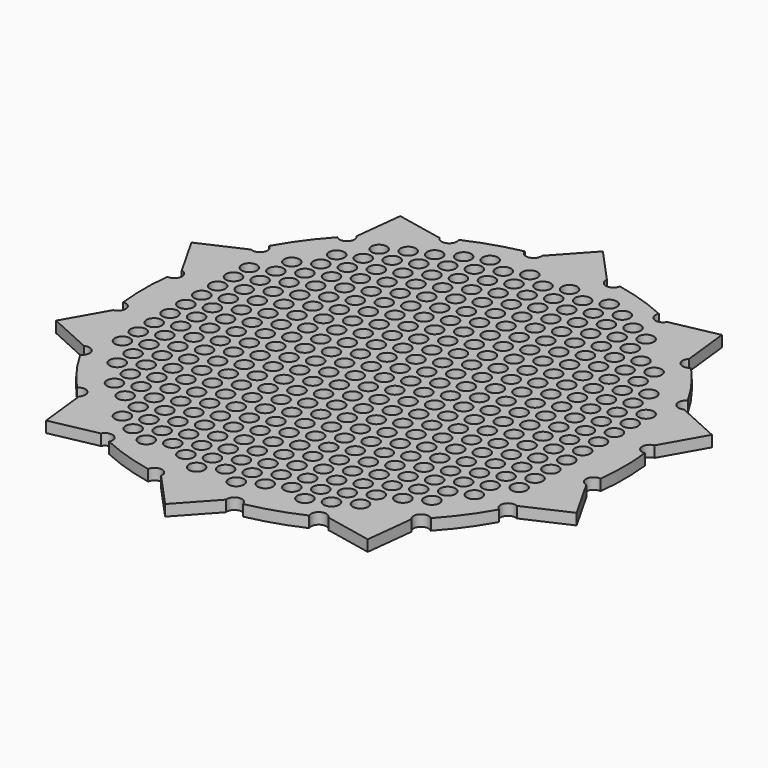
from build123d import *

# Parameters (mm, degrees)
F0_R     = 2.623
F0_R_2   = 2.5
F1_DEPTH = 0.127
F3_R     = 0.0875
F4_DEPTH = 0.128


with BuildPart() as f1:
    # F0 (on Top) → F1 (new body)
    with BuildSketch(Plane.XY):
        with BuildLine():
            ThreePointArc((0.5434336474, 2.6957707378), (0.4428414203, 2.62541382), (0.3708930758, 2.7248740019))
            ThreePointArc((0.3708930758, 2.7248740019), (0, 2.75), (-0.3708930758, 2.7248740019))
            ThreePointArc((-0.3708930758, 2.7248740019), (-0.4428414203, 2.62541382), (-0.5434336474, 2.6957707378))
            ThreePointArc((-0.5434336474, 2.6957707378), (-0.8497967345, 2.6154054198), (-1.1448872272, 2.5003466234))
            ThreePointArc((-1.1448872272, 2.5003466234), (-1.1849132898, 2.3843000536), (-1.3015819513, 2.4224748552))
            ThreePointArc((-1.3015819513, 2.4224748552), (-1.6164094438, 2.2247967345), (-1.9016995541, 1.9864638949))
            ThreePointArc((-1.9016995541, 1.9864638949), (-1.9014457594, 1.8637087418), (-2.0241813393, 1.8615020563))
            ThreePointArc((-2.0241813393, 1.8615020563), (-2.2247967345, 1.6164094438), (-2.3959000943, 1.3498750825))
            ThreePointArc((-2.3959000943, 1.3498750825), (-2.3600713969, 1.2324647061), (-2.4768969121, 1.1947726507))
            ThreePointArc((-2.4768969121, 1.1947726507), (-2.6154054198, 0.8497967345), (-2.7061214391, 0.4892920975))
            ThreePointArc((-2.7061214391, 0.4892920975), (-2.6337624462, 0.3901302692), (-2.731760559, 0.3162028594))
            ThreePointArc((-2.731760559, 0.3162028594), (-2.75, 0), (-2.731760559, -0.3162028594))
            ThreePointArc((-2.731760559, -0.3162028594), (-2.6337624462, -0.3901302692), (-2.7061214391, -0.4892920975))
            ThreePointArc((-2.7061214391, -0.4892920975), (-2.6154054198, -0.8497967345), (-2.4768969121, -1.1947726507))
            ThreePointArc((-2.4768969121, -1.1947726507), (-2.3600713969, -1.2324647061), (-2.3959000943, -1.3498750825))
            ThreePointArc((-2.3959000943, -1.3498750825), (-2.2247967345, -1.6164094438), (-2.0241813393, -1.8615020563))
            ThreePointArc((-2.0241813393, -1.8615020563), (-1.9014457594, -1.8637087418), (-1.9016995541, -1.9864638949))
            ThreePointArc((-1.9016995541, -1.9864638949), (-1.6164094438, -2.2247967345), (-1.3015819513, -2.4224748552))
            ThreePointArc((-1.3015819513, -2.4224748552), (-1.1849132898, -2.3843000536), (-1.1448872272, -2.5003466234))
            ThreePointArc((-1.1448872272, -2.5003466234), (-0.8497967345, -2.6154054198), (-0.5434336474, -2.6957707378))
            ThreePointArc((-0.5434336474, -2.6957707378), (-0.4428414203, -2.62541382), (-0.3708930758, -2.7248740019))
            ThreePointArc((-0.3708930758, -2.7248740019), (0, -2.75), (0.3708930758, -2.7248740019))
            ThreePointArc((0.3708930758, -2.7248740019), (0.4428414203, -2.62541382), (0.5434336474, -2.6957707378))
            ThreePointArc((0.5434336474, -2.6957707378), (0.8497967345, -2.6154054198), (1.1448872272, -2.5003466234))
            ThreePointArc((1.1448872272, -2.5003466234), (1.1849132898, -2.3843000536), (1.3015819513, -2.4224748552))
            ThreePointArc((1.3015819513, -2.4224748552), (1.6164094438, -2.2247967345), (1.9016995541, -1.9864638949))
            ThreePointArc((1.9016995541, -1.9864638949), (1.9014457594, -1.8637087418), (2.0241813393, -1.8615020563))
            ThreePointArc((2.0241813393, -1.8615020563), (2.2247967345, -1.6164094438), (2.3959000943, -1.3498750825))
            ThreePointArc((2.3959000943, -1.3498750825), (2.3600713969, -1.2324647061), (2.4768969121, -1.1947726507))
            ThreePointArc((2.4768969121, -1.1947726507), (2.6154054198, -0.8497967345), (2.7061214391, -0.4892920975))
            ThreePointArc((2.7061214391, -0.4892920975), (2.6337624462, -0.3901302692), (2.731760559, -0.3162028594))
            ThreePointArc((2.731760559, -0.3162028594), (2.75, 0), (2.731760559, 0.3162028594))
            ThreePointArc((2.731760559, 0.3162028594), (2.6337624462, 0.3901302692), (2.7061214391, 0.4892920975))
            ThreePointArc((2.7061214391, 0.4892920975), (2.6154054198, 0.8497967345), (2.4768969121, 1.1947726507))
            ThreePointArc((2.4768969121, 1.1947726507), (2.3600713969, 1.2324647061), (2.3959000943, 1.3498750825))
            ThreePointArc((2.3959000943, 1.3498750825), (2.2247967345, 1.6164094438), (2.0241813393, 1.8615020563))
            ThreePointArc((2.0241813393, 1.8615020563), (1.9014457594, 1.8637087418), (1.9016995541, 1.9864638949))
            ThreePointArc((1.9016995541, 1.9864638949), (1.6164094438, 2.2247967345), (1.3015819513, 2.4224748552))
            ThreePointArc((1.3015819513, 2.4224748552), (1.1849132898, 2.3843000536), (1.1448872272, 2.5003466234))
            ThreePointArc((1.1448872272, 2.5003466234), (0.8497967345, 2.6154054198), (0.5434336474, 2.6957707378))
        make_face()
        Circle(F0_R, mode=Mode.SUBTRACT)
        Circle(F0_R)
        Circle(F0_R_2, mode=Mode.SUBTRACT)
        Circle(F0_R_2)
        with BuildLine():
            ThreePointArc((-0.3708930758, 2.7248740019), (0, 2.75), (0.3708930758, 2.7248740019))
            Line((0.3708930758, 2.7248740019), (0, 3.131))
            Line((0, 3.131), (-0.3708930758, 2.7248740019))
        make_face()
        with BuildLine():
            Line((1.8403556249, 2.5330322094), (1.3015819513, 2.4224748552))
            ThreePointArc((1.3015819513, 2.4224748552), (1.6164094438, 2.2247967345), (1.9016995541, 1.9864638949))
            Line((1.9016995541, 1.9864638949), (1.8403556249, 2.5330322094))
        make_face()
        with BuildLine():
            ThreePointArc((-1.9016995541, 1.9864638949), (-1.6164094438, 2.2247967345), (-1.3015819513, 2.4224748552))
            Line((-1.3015819513, 2.4224748552), (-1.8403556249, 2.5330322094))
            Line((-1.8403556249, 2.5330322094), (-1.9016995541, 1.9864638949))
        make_face()
        with BuildLine():
            Line((2.9777579525, 0.9675322094), (2.4768969121, 1.1947726507))
            ThreePointArc((2.4768969121, 1.1947726507), (2.6154054198, 0.8497967345), (2.7061214391, 0.4892920975))
            Line((2.7061214391, 0.4892920975), (2.9777579525, 0.9675322094))
        make_face()
        with BuildLine():
            ThreePointArc((-2.7061214391, 0.4892920975), (-2.6154054198, 0.8497967345), (-2.4768969121, 1.1947726507))
            Line((-2.4768969121, 1.1947726507), (-2.9777579525, 0.9675322094))
            Line((-2.9777579525, 0.9675322094), (-2.7061214391, 0.4892920975))
        make_face()
        with BuildLine():
            Line((2.9777579525, -0.9675322094), (2.7061214391, -0.4892920975))
            ThreePointArc((2.7061214391, -0.4892920975), (2.6154054198, -0.8497967345), (2.4768969121, -1.1947726507))
            Line((2.4768969121, -1.1947726507), (2.9777579525, -0.9675322094))
        make_face()
        with BuildLine():
            ThreePointArc((-2.4768969121, -1.1947726507), (-2.6154054198, -0.8497967345), (-2.7061214391, -0.4892920975))
            Line((-2.7061214391, -0.4892920975), (-2.9777579525, -0.9675322094))
            Line((-2.9777579525, -0.9675322094), (-2.4768969121, -1.1947726507))
        make_face()
        with BuildLine():
            Line((1.8403556249, -2.5330322094), (1.9016995541, -1.9864638949))
            ThreePointArc((1.9016995541, -1.9864638949), (1.6164094438, -2.2247967345), (1.3015819513, -2.4224748552))
            Line((1.3015819513, -2.4224748552), (1.8403556249, -2.5330322094))
        make_face()
        with BuildLine():
            ThreePointArc((-1.3015819513, -2.4224748552), (-1.6164094438, -2.2247967345), (-1.9016995541, -1.9864638949))
            Line((-1.9016995541, -1.9864638949), (-1.8403556249, -2.5330322094))
            Line((-1.8403556249, -2.5330322094), (-1.3015819513, -2.4224748552))
        make_face()
        with BuildLine():
            Line((0, -3.131), (0.3708930758, -2.7248740019))
            ThreePointArc((0.3708930758, -2.7248740019), (0, -2.75), (-0.3708930758, -2.7248740019))
            Line((-0.3708930758, -2.7248740019), (0, -3.131))
        make_face()
    extrude(amount=F1_DEPTH)

    # F3 (on offset) → F4 (cut, through all)
    with BuildSketch(Plane.XY.offset(0.127)):
        with Locations((-2.0417519944, 1.2336155081)):
            Circle(F3_R)
        with Locations((-2.0417519944, 1.0066155081)):
            Circle(F3_R)
        with Locations((-2.2690836629, 0.9108655081)):
            Circle(F3_R)
        with Locations((-2.0417519944, 0.7796155081)):
            Circle(F3_R)
        with Locations((-1.5877519944, 1.9146155081)):
            Circle(F3_R)
        with Locations((-1.5877519944, 1.6876155081)):
            Circle(F3_R)
        with Locations((-1.8150836629, 1.5918655081)):
            Circle(F3_R)
        with Locations((-1.5877519944, 1.4606155081)):
            Circle(F3_R)
        with Locations((-1.8150836629, 1.3648655081)):
            Circle(F3_R)
        with Locations((-1.5877519944, 1.2336155081)):
            Circle(F3_R)
        with Locations((-1.8150836629, 1.1378655081)):
            Circle(F3_R)
        with Locations((-1.5877519944, 1.0066155081)):
            Circle(F3_R)
        with Locations((-1.8150836629, 0.9108655081)):
            Circle(F3_R)
        with Locations((-1.5877519944, 0.7796155081)):
            Circle(F3_R)
        with Locations((-1.1337519944, 2.1416155081)):
            Circle(F3_R)
        with Locations((-1.3610836629, 2.0458655081)):
            Circle(F3_R)
        with Locations((-1.1337519944, 1.9146155081)):
            Circle(F3_R)
        with Locations((-1.3610836629, 1.8188655081)):
            Circle(F3_R)
        with Locations((-1.1337519944, 1.6876155081)):
            Circle(F3_R)
        with Locations((-1.3610836629, 1.5918655081)):
            Circle(F3_R)
        with Locations((-1.1337519944, 1.4606155081)):
            Circle(F3_R)
        with Locations((-1.3610836629, 1.3648655081)):
            Circle(F3_R)
        with Locations((-1.1337519944, 1.2336155081)):
            Circle(F3_R)
        with Locations((-1.3610836629, 1.1378655081)):
            Circle(F3_R)
        with Locations((-1.1337519944, 1.0066155081)):
            Circle(F3_R)
        with Locations((-1.3610836629, 0.9108655081)):
            Circle(F3_R)
        with Locations((-1.1337519944, 0.7796155081)):
            Circle(F3_R)
        with Locations((-0.6797519944, 2.3686155081)):
            Circle(F3_R)
        with Locations((-0.9070836629, 2.2728655081)):
            Circle(F3_R)
        with Locations((-0.6797519944, 2.1416155081)):
            Circle(F3_R)
        with Locations((-0.9070836629, 2.0458655081)):
            Circle(F3_R)
        with Locations((-0.6797519944, 1.9146155081)):
            Circle(F3_R)
        with Locations((-0.9070836629, 1.8188655081)):
            Circle(F3_R)
        with Locations((-0.6797519944, 1.6876155081)):
            Circle(F3_R)
        with Locations((-0.9070836629, 1.5918655081)):
            Circle(F3_R)
        with Locations((-0.6797519944, 1.4606155081)):
            Circle(F3_R)
        with Locations((-0.9070836629, 1.3648655081)):
            Circle(F3_R)
        with Locations((-0.6797519944, 1.2336155081)):
            Circle(F3_R)
        with Locations((-0.9070836629, 1.1378655081)):
            Circle(F3_R)
        with Locations((-0.6797519944, 1.0066155081)):
            Circle(F3_R)
        with Locations((-0.9070836629, 0.9108655081)):
            Circle(F3_R)
        with Locations((-0.6797519944, 0.7796155081)):
            Circle(F3_R)
        with Locations((-0.2257519944, 2.3686155081)):
            Circle(F3_R)
        with Locations((-0.4530836629, 2.2728655081)):
            Circle(F3_R)
        with Locations((-0.2257519944, 2.1416155081)):
            Circle(F3_R)
        with Locations((-0.4530836629, 2.0458655081)):
            Circle(F3_R)
        with Locations((-0.2257519944, 1.9146155081)):
            Circle(F3_R)
        with Locations((-0.4530836629, 1.8188655081)):
            Circle(F3_R)
        with Locations((-0.2257519944, 1.6876155081)):
            Circle(F3_R)
        with Locations((-0.4530836629, 1.5918655081)):
            Circle(F3_R)
        with Locations((-0.2257519944, 1.4606155081)):
            Circle(F3_R)
        with Locations((-0.4530836629, 1.3648655081)):
            Circle(F3_R)
        with Locations((-0.2257519944, 1.2336155081)):
            Circle(F3_R)
        with Locations((-0.4530836629, 1.1378655081)):
            Circle(F3_R)
        with Locations((-0.2257519944, 1.0066155081)):
            Circle(F3_R)
        with Locations((-0.4530836629, 0.9108655081)):
            Circle(F3_R)
        with Locations((-0.2257519944, 0.7796155081)):
            Circle(F3_R)
        with Locations((0.2282480056, 2.3686155081)):
            Circle(F3_R)
        with Locations((0.0009163371, 2.2728655081)):
            Circle(F3_R)
        with Locations((0.2282480056, 2.1416155081)):
            Circle(F3_R)
        with Locations((0.0009163371, 2.0458655081)):
            Circle(F3_R)
        with Locations((0.2282480056, 1.9146155081)):
            Circle(F3_R)
        with Locations((0.0009163371, 1.8188655081)):
            Circle(F3_R)
        with Locations((0.2282480056, 1.6876155081)):
            Circle(F3_R)
        with Locations((0.0009163371, 1.5918655081)):
            Circle(F3_R)
        with Locations((0.2282480056, 1.4606155081)):
            Circle(F3_R)
        with Locations((0.0009163371, 1.3648655081)):
            Circle(F3_R)
        with Locations((0.2282480056, 1.2336155081)):
            Circle(F3_R)
        with Locations((0.0009163371, 1.1378655081)):
            Circle(F3_R)
        with Locations((0.2282480056, 1.0066155081)):
            Circle(F3_R)
        with Locations((0.0009163371, 0.9108655081)):
            Circle(F3_R)
        with Locations((0.2282480056, 0.7796155081)):
            Circle(F3_R)
        with Locations((0.6822480056, 2.3686155081)):
            Circle(F3_R)
        with Locations((0.4549163371, 2.2728655081)):
            Circle(F3_R)
        with Locations((0.6822480056, 2.1416155081)):
            Circle(F3_R)
        with Locations((0.4549163371, 2.0458655081)):
            Circle(F3_R)
        with Locations((0.6822480056, 1.9146155081)):
            Circle(F3_R)
        with Locations((0.4549163371, 1.8188655081)):
            Circle(F3_R)
        with Locations((0.6822480056, 1.6876155081)):
            Circle(F3_R)
        with Locations((0.4549163371, 1.5918655081)):
            Circle(F3_R)
        with Locations((0.6822480056, 1.4606155081)):
            Circle(F3_R)
        with Locations((0.4549163371, 1.3648655081)):
            Circle(F3_R)
        with Locations((0.6822480056, 1.2336155081)):
            Circle(F3_R)
        with Locations((0.4549163371, 1.1378655081)):
            Circle(F3_R)
        with Locations((0.6822480056, 1.0066155081)):
            Circle(F3_R)
        with Locations((0.4549163371, 0.9108655081)):
            Circle(F3_R)
        with Locations((0.6822480056, 0.7796155081)):
            Circle(F3_R)
        with Locations((0.9089163371, 2.2728655081)):
            Circle(F3_R)
        with Locations((1.1362480056, 2.1416155081)):
            Circle(F3_R)
        with Locations((0.9089163371, 2.0458655081)):
            Circle(F3_R)
        with Locations((1.1362480056, 1.9146155081)):
            Circle(F3_R)
        with Locations((0.9089163371, 1.8188655081)):
            Circle(F3_R)
        with Locations((1.1362480056, 1.6876155081)):
            Circle(F3_R)
        with Locations((0.9089163371, 1.5918655081)):
            Circle(F3_R)
        with Locations((1.1362480056, 1.4606155081)):
            Circle(F3_R)
        with Locations((0.9089163371, 1.3648655081)):
            Circle(F3_R)
        with Locations((1.1362480056, 1.2336155081)):
            Circle(F3_R)
        with Locations((0.9089163371, 1.1378655081)):
            Circle(F3_R)
        with Locations((1.1362480056, 1.0066155081)):
            Circle(F3_R)
        with Locations((0.9089163371, 0.9108655081)):
            Circle(F3_R)
        with Locations((1.1362480056, 0.7796155081)):
            Circle(F3_R)
        with Locations((1.3629163371, 2.0458655081)):
            Circle(F3_R)
        with Locations((1.3629163371, 1.8188655081)):
            Circle(F3_R)
        with Locations((1.5902480056, 1.6876155081)):
            Circle(F3_R)
        with Locations((1.3629163371, 1.5918655081)):
            Circle(F3_R)
        with Locations((1.5902480056, 1.4606155081)):
            Circle(F3_R)
        with Locations((1.3629163371, 1.3648655081)):
            Circle(F3_R)
        with Locations((1.5902480056, 1.2336155081)):
            Circle(F3_R)
        with Locations((1.3629163371, 1.1378655081)):
            Circle(F3_R)
        with Locations((1.5902480056, 1.0066155081)):
            Circle(F3_R)
        with Locations((1.3629163371, 0.9108655081)):
            Circle(F3_R)
        with Locations((1.5902480056, 0.7796155081)):
            Circle(F3_R)
        with Locations((1.8169163371, 1.5918655081)):
            Circle(F3_R)
        with Locations((1.8169163371, 1.3648655081)):
            Circle(F3_R)
        with Locations((2.0442480056, 1.2336155081)):
            Circle(F3_R)
        with Locations((1.8169163371, 1.1378655081)):
            Circle(F3_R)
        with Locations((2.0442480056, 1.0066155081)):
            Circle(F3_R)
        with Locations((1.8169163371, 0.9108655081)):
            Circle(F3_R)
        with Locations((2.0442480056, 0.7796155081)):
            Circle(F3_R)
        with Locations((-2.2690836629, 0.6838655081)):
            Circle(F3_R)
        with Locations((-2.0417519944, 0.5526155081)):
            Circle(F3_R)
        with Locations((-2.2690836629, 0.4568655081)):
            Circle(F3_R)
        with Locations((-2.0417519944, 0.3256155081)):
            Circle(F3_R)
        with Locations((-2.2690836629, 0.2298655081)):
            Circle(F3_R)
        with Locations((-2.0417519944, 0.0986155081)):
            Circle(F3_R)
        with Locations((-2.2690836629, 0.0028655081)):
            Circle(F3_R)
        with Locations((-2.0417519944, -0.1283844919)):
            Circle(F3_R)
        with Locations((-2.2690836629, -0.2241344919)):
            Circle(F3_R)
        with Locations((-2.0417519944, -0.3553844919)):
            Circle(F3_R)
        with Locations((-2.2690836629, -0.4511344919)):
            Circle(F3_R)
        with Locations((-2.0417519944, -0.5823844919)):
            Circle(F3_R)
        with Locations((-2.2690836629, -0.6781344919)):
            Circle(F3_R)
        with Locations((-2.0417519944, -0.8093844919)):
            Circle(F3_R)
        with Locations((-2.2690836629, -0.9051344919)):
            Circle(F3_R)
        with Locations((-2.0417519944, -1.0363844919)):
            Circle(F3_R)
        with Locations((-2.0417519944, -1.2633844919)):
            Circle(F3_R)
        with Locations((-1.8150836629, 0.6838655081)):
            Circle(F3_R)
        with Locations((-1.5877519944, 0.5526155081)):
            Circle(F3_R)
        with Locations((-1.8150836629, 0.4568655081)):
            Circle(F3_R)
        with Locations((-1.5877519944, 0.3256155081)):
            Circle(F3_R)
        with Locations((-1.8150836629, 0.2298655081)):
            Circle(F3_R)
        with Locations((-1.5877519944, 0.0986155081)):
            Circle(F3_R)
        with Locations((-1.8150836629, 0.0028655081)):
            Circle(F3_R)
        with Locations((-1.5877519944, -0.1283844919)):
            Circle(F3_R)
        with Locations((-1.8150836629, -0.2241344919)):
            Circle(F3_R)
        with Locations((-1.5877519944, -0.3553844919)):
            Circle(F3_R)
        with Locations((-1.8150836629, -0.4511344919)):
            Circle(F3_R)
        with Locations((-1.5877519944, -0.5823844919)):
            Circle(F3_R)
        with Locations((-1.8150836629, -0.6781344919)):
            Circle(F3_R)
        with Locations((-1.5877519944, -0.8093844919)):
            Circle(F3_R)
        with Locations((-1.8150836629, -0.9051344919)):
            Circle(F3_R)
        with Locations((-1.5877519944, -1.0363844919)):
            Circle(F3_R)
        with Locations((-1.8150836629, -1.1321344919)):
            Circle(F3_R)
        with Locations((-1.5877519944, -1.2633844919)):
            Circle(F3_R)
        with Locations((-1.8150836629, -1.3591344919)):
            Circle(F3_R)
        with Locations((-1.5877519944, -1.4903844919)):
            Circle(F3_R)
        with Locations((-1.8150836629, -1.5861344919)):
            Circle(F3_R)
        with Locations((-1.5877519944, -1.7173844919)):
            Circle(F3_R)
        with Locations((-1.3610836629, 0.6838655081)):
            Circle(F3_R)
        with Locations((-1.1337519944, 0.5526155081)):
            Circle(F3_R)
        with Locations((-1.3610836629, 0.4568655081)):
            Circle(F3_R)
        with Locations((-1.1337519944, 0.3256155081)):
            Circle(F3_R)
        with Locations((-1.3610836629, 0.2298655081)):
            Circle(F3_R)
        with Locations((-1.1337519944, 0.0986155081)):
            Circle(F3_R)
        with Locations((-1.3610836629, 0.0028655081)):
            Circle(F3_R)
        with Locations((-1.1337519944, -0.1283844919)):
            Circle(F3_R)
        with Locations((-1.3610836629, -0.2241344919)):
            Circle(F3_R)
        with Locations((-1.1337519944, -0.3553844919)):
            Circle(F3_R)
        with Locations((-1.3610836629, -0.4511344919)):
            Circle(F3_R)
        with Locations((-1.1337519944, -0.5823844919)):
            Circle(F3_R)
        with Locations((-1.3610836629, -0.6781344919)):
            Circle(F3_R)
        with Locations((-1.1337519944, -0.8093844919)):
            Circle(F3_R)
        with Locations((-1.3610836629, -0.9051344919)):
            Circle(F3_R)
        with Locations((-1.1337519944, -1.0363844919)):
            Circle(F3_R)
        with Locations((-1.3610836629, -1.1321344919)):
            Circle(F3_R)
        with Locations((-1.1337519944, -1.2633844919)):
            Circle(F3_R)
        with Locations((-1.3610836629, -1.3591344919)):
            Circle(F3_R)
        with Locations((-1.1337519944, -1.4903844919)):
            Circle(F3_R)
        with Locations((-1.3610836629, -1.5861344919)):
            Circle(F3_R)
        with Locations((-1.1337519944, -1.7173844919)):
            Circle(F3_R)
        with Locations((-0.9070836629, 0.6838655081)):
            Circle(F3_R)
        with Locations((-0.6797519944, 0.5526155081)):
            Circle(F3_R)
        with Locations((-0.9070836629, 0.4568655081)):
            Circle(F3_R)
        with Locations((-0.6797519944, 0.3256155081)):
            Circle(F3_R)
        with Locations((-0.9070836629, 0.2298655081)):
            Circle(F3_R)
        with Locations((-0.6797519944, 0.0986155081)):
            Circle(F3_R)
        with Locations((-0.9070836629, 0.0028655081)):
            Circle(F3_R)
        with Locations((-0.6797519944, -0.1283844919)):
            Circle(F3_R)
        with Locations((-0.9070836629, -0.2241344919)):
            Circle(F3_R)
        with Locations((-0.6797519944, -0.3553844919)):
            Circle(F3_R)
        with Locations((-0.9070836629, -0.4511344919)):
            Circle(F3_R)
        with Locations((-0.6797519944, -0.5823844919)):
            Circle(F3_R)
        with Locations((-0.9070836629, -0.6781344919)):
            Circle(F3_R)
        with Locations((-0.6797519944, -0.8093844919)):
            Circle(F3_R)
        with Locations((-0.9070836629, -0.9051344919)):
            Circle(F3_R)
        with Locations((-0.6797519944, -1.0363844919)):
            Circle(F3_R)
        with Locations((-0.9070836629, -1.1321344919)):
            Circle(F3_R)
        with Locations((-0.6797519944, -1.2633844919)):
            Circle(F3_R)
        with Locations((-0.9070836629, -1.3591344919)):
            Circle(F3_R)
        with Locations((-0.6797519944, -1.4903844919)):
            Circle(F3_R)
        with Locations((-0.9070836629, -1.5861344919)):
            Circle(F3_R)
        with Locations((-0.6797519944, -1.7173844919)):
            Circle(F3_R)
        with Locations((-0.4530836629, 0.6838655081)):
            Circle(F3_R)
        with Locations((-0.2257519944, 0.5526155081)):
            Circle(F3_R)
        with Locations((-0.4530836629, 0.4568655081)):
            Circle(F3_R)
        with Locations((-0.2257519944, 0.3256155081)):
            Circle(F3_R)
        with Locations((-0.4530836629, 0.2298655081)):
            Circle(F3_R)
        with Locations((-0.2257519944, 0.0986155081)):
            Circle(F3_R)
        with Locations((-0.4530836629, 0.0028655081)):
            Circle(F3_R)
        with Locations((-0.2257519944, -0.1283844919)):
            Circle(F3_R)
        with Locations((-0.4530836629, -0.2241344919)):
            Circle(F3_R)
        with Locations((-0.2257519944, -0.3553844919)):
            Circle(F3_R)
        with Locations((-0.4530836629, -0.4511344919)):
            Circle(F3_R)
        with Locations((-0.2257519944, -0.5823844919)):
            Circle(F3_R)
        with Locations((-0.4530836629, -0.6781344919)):
            Circle(F3_R)
        with Locations((-0.2257519944, -0.8093844919)):
            Circle(F3_R)
        with Locations((-0.4530836629, -0.9051344919)):
            Circle(F3_R)
        with Locations((-0.2257519944, -1.0363844919)):
            Circle(F3_R)
        with Locations((-0.4530836629, -1.1321344919)):
            Circle(F3_R)
        with Locations((-0.2257519944, -1.2633844919)):
            Circle(F3_R)
        with Locations((-0.4530836629, -1.3591344919)):
            Circle(F3_R)
        with Locations((-0.2257519944, -1.4903844919)):
            Circle(F3_R)
        with Locations((-0.4530836629, -1.5861344919)):
            Circle(F3_R)
        with Locations((-0.2257519944, -1.7173844919)):
            Circle(F3_R)
        with Locations((0.0009163371, 0.6838655081)):
            Circle(F3_R)
        with Locations((0.2282480056, 0.5526155081)):
            Circle(F3_R)
        with Locations((0.0009163371, 0.4568655081)):
            Circle(F3_R)
        with Locations((0.2282480056, 0.3256155081)):
            Circle(F3_R)
        with Locations((0.0009163371, 0.2298655081)):
            Circle(F3_R)
        with Locations((0.2282480056, 0.0986155081)):
            Circle(F3_R)
        with Locations((0.0009163371, 0.0028655081)):
            Circle(F3_R)
        with Locations((0.2282480056, -0.1283844919)):
            Circle(F3_R)
        with Locations((0.0009163371, -0.2241344919)):
            Circle(F3_R)
        with Locations((0.2282480056, -0.3553844919)):
            Circle(F3_R)
        with Locations((0.0009163371, -0.4511344919)):
            Circle(F3_R)
        with Locations((0.2282480056, -0.5823844919)):
            Circle(F3_R)
        with Locations((0.0009163371, -0.6781344919)):
            Circle(F3_R)
        with Locations((0.2282480056, -0.8093844919)):
            Circle(F3_R)
        with Locations((0.0009163371, -0.9051344919)):
            Circle(F3_R)
        with Locations((0.2282480056, -1.0363844919)):
            Circle(F3_R)
        with Locations((0.0009163371, -1.1321344919)):
            Circle(F3_R)
        with Locations((0.2282480056, -1.2633844919)):
            Circle(F3_R)
        with Locations((0.0009163371, -1.3591344919)):
            Circle(F3_R)
        with Locations((0.2282480056, -1.4903844919)):
            Circle(F3_R)
        with Locations((0.0009163371, -1.5861344919)):
            Circle(F3_R)
        with Locations((0.2282480056, -1.7173844919)):
            Circle(F3_R)
        with Locations((0.4549163371, 0.6838655081)):
            Circle(F3_R)
        with Locations((0.6822480056, 0.5526155081)):
            Circle(F3_R)
        with Locations((0.4549163371, 0.4568655081)):
            Circle(F3_R)
        with Locations((0.6822480056, 0.3256155081)):
            Circle(F3_R)
        with Locations((0.4549163371, 0.2298655081)):
            Circle(F3_R)
        with Locations((0.6822480056, 0.0986155081)):
            Circle(F3_R)
        with Locations((0.4549163371, 0.0028655081)):
            Circle(F3_R)
        with Locations((0.6822480056, -0.1283844919)):
            Circle(F3_R)
        with Locations((0.4549163371, -0.2241344919)):
            Circle(F3_R)
        with Locations((0.6822480056, -0.3553844919)):
            Circle(F3_R)
        with Locations((0.4549163371, -0.4511344919)):
            Circle(F3_R)
        with Locations((0.6822480056, -0.5823844919)):
            Circle(F3_R)
        with Locations((0.4549163371, -0.6781344919)):
            Circle(F3_R)
        with Locations((0.6822480056, -0.8093844919)):
            Circle(F3_R)
        with Locations((0.4549163371, -0.9051344919)):
            Circle(F3_R)
        with Locations((0.6822480056, -1.0363844919)):
            Circle(F3_R)
        with Locations((0.4549163371, -1.1321344919)):
            Circle(F3_R)
        with Locations((0.6822480056, -1.2633844919)):
            Circle(F3_R)
        with Locations((0.4549163371, -1.3591344919)):
            Circle(F3_R)
        with Locations((0.6822480056, -1.4903844919)):
            Circle(F3_R)
        with Locations((0.4549163371, -1.5861344919)):
            Circle(F3_R)
        with Locations((0.6822480056, -1.7173844919)):
            Circle(F3_R)
        with Locations((0.9089163371, 0.6838655081)):
            Circle(F3_R)
        with Locations((1.1362480056, 0.5526155081)):
            Circle(F3_R)
        with Locations((0.9089163371, 0.4568655081)):
            Circle(F3_R)
        with Locations((1.1362480056, 0.3256155081)):
            Circle(F3_R)
        with Locations((0.9089163371, 0.2298655081)):
            Circle(F3_R)
        with Locations((1.1362480056, 0.0986155081)):
            Circle(F3_R)
        with Locations((0.9089163371, 0.0028655081)):
            Circle(F3_R)
        with Locations((1.1362480056, -0.1283844919)):
            Circle(F3_R)
        with Locations((0.9089163371, -0.2241344919)):
            Circle(F3_R)
        with Locations((1.1362480056, -0.3553844919)):
            Circle(F3_R)
        with Locations((0.9089163371, -0.4511344919)):
            Circle(F3_R)
        with Locations((1.1362480056, -0.5823844919)):
            Circle(F3_R)
        with Locations((0.9089163371, -0.6781344919)):
            Circle(F3_R)
        with Locations((1.1362480056, -0.8093844919)):
            Circle(F3_R)
        with Locations((0.9089163371, -0.9051344919)):
            Circle(F3_R)
        with Locations((1.1362480056, -1.0363844919)):
            Circle(F3_R)
        with Locations((0.9089163371, -1.1321344919)):
            Circle(F3_R)
        with Locations((1.1362480056, -1.2633844919)):
            Circle(F3_R)
        with Locations((0.9089163371, -1.3591344919)):
            Circle(F3_R)
        with Locations((1.1362480056, -1.4903844919)):
            Circle(F3_R)
        with Locations((0.9089163371, -1.5861344919)):
            Circle(F3_R)
        with Locations((1.1362480056, -1.7173844919)):
            Circle(F3_R)
        with Locations((1.3629163371, 0.6838655081)):
            Circle(F3_R)
        with Locations((1.5902480056, 0.5526155081)):
            Circle(F3_R)
        with Locations((1.3629163371, 0.4568655081)):
            Circle(F3_R)
        with Locations((1.5902480056, 0.3256155081)):
            Circle(F3_R)
        with Locations((1.3629163371, 0.2298655081)):
            Circle(F3_R)
        with Locations((1.5902480056, 0.0986155081)):
            Circle(F3_R)
        with Locations((1.3629163371, 0.0028655081)):
            Circle(F3_R)
        with Locations((1.5902480056, -0.1283844919)):
            Circle(F3_R)
        with Locations((1.3629163371, -0.2241344919)):
            Circle(F3_R)
        with Locations((1.5902480056, -0.3553844919)):
            Circle(F3_R)
        with Locations((1.3629163371, -0.4511344919)):
            Circle(F3_R)
        with Locations((1.5902480056, -0.5823844919)):
            Circle(F3_R)
        with Locations((1.3629163371, -0.6781344919)):
            Circle(F3_R)
        with Locations((1.5902480056, -0.8093844919)):
            Circle(F3_R)
        with Locations((1.3629163371, -0.9051344919)):
            Circle(F3_R)
        with Locations((1.5902480056, -1.0363844919)):
            Circle(F3_R)
        with Locations((1.3629163371, -1.1321344919)):
            Circle(F3_R)
        with Locations((1.5902480056, -1.2633844919)):
            Circle(F3_R)
        with Locations((1.3629163371, -1.3591344919)):
            Circle(F3_R)
        with Locations((1.5902480056, -1.4903844919)):
            Circle(F3_R)
        with Locations((1.3629163371, -1.5861344919)):
            Circle(F3_R)
        with Locations((1.5902480056, -1.7173844919)):
            Circle(F3_R)
        with Locations((1.8169163371, 0.6838655081)):
            Circle(F3_R)
        with Locations((2.0442480056, 0.5526155081)):
            Circle(F3_R)
        with Locations((1.8169163371, 0.4568655081)):
            Circle(F3_R)
        with Locations((2.0442480056, 0.3256155081)):
            Circle(F3_R)
        with Locations((1.8169163371, 0.2298655081)):
            Circle(F3_R)
        with Locations((2.0442480056, 0.0986155081)):
            Circle(F3_R)
        with Locations((1.8169163371, 0.0028655081)):
            Circle(F3_R)
        with Locations((2.0442480056, -0.1283844919)):
            Circle(F3_R)
        with Locations((1.8169163371, -0.2241344919)):
            Circle(F3_R)
        with Locations((2.0442480056, -0.3553844919)):
            Circle(F3_R)
        with Locations((1.8169163371, -0.4511344919)):
            Circle(F3_R)
        with Locations((2.0442480056, -0.5823844919)):
            Circle(F3_R)
        with Locations((1.8169163371, -0.6781344919)):
            Circle(F3_R)
        with Locations((2.0442480056, -0.8093844919)):
            Circle(F3_R)
        with Locations((1.8169163371, -0.9051344919)):
            Circle(F3_R)
        with Locations((2.0442480056, -1.0363844919)):
            Circle(F3_R)
        with Locations((1.8169163371, -1.1321344919)):
            Circle(F3_R)
        with Locations((2.0442480056, -1.2633844919)):
            Circle(F3_R)
        with Locations((1.8169163371, -1.3591344919)):
            Circle(F3_R)
        with Locations((1.8169163371, -1.5861344919)):
            Circle(F3_R)
        with Locations((2.2709163371, 0.9108655081)):
            Circle(F3_R)
        with Locations((2.2709163371, 0.6838655081)):
            Circle(F3_R)
        with Locations((2.2709163371, 0.4568655081)):
            Circle(F3_R)
        with Locations((2.2709163371, 0.2298655081)):
            Circle(F3_R)
        with Locations((2.2709163371, 0.0028655081)):
            Circle(F3_R)
        with Locations((2.2709163371, -0.2241344919)):
            Circle(F3_R)
        with Locations((2.2709163371, -0.4511344919)):
            Circle(F3_R)
        with Locations((2.2709163371, -0.6781344919)):
            Circle(F3_R)
        with Locations((2.2709163371, -0.9051344919)):
            Circle(F3_R)
        with Locations((-1.3610836629, -1.8131344919)):
            Circle(F3_R)
        with Locations((-1.1337519944, -1.9443844919)):
            Circle(F3_R)
        with Locations((-1.3610836629, -2.0401344919)):
            Circle(F3_R)
        with Locations((-1.1337519944, -2.1713844919)):
            Circle(F3_R)
        with Locations((-0.9070836629, -1.8131344919)):
            Circle(F3_R)
        with Locations((-0.6797519944, -1.9443844919)):
            Circle(F3_R)
        with Locations((-0.9070836629, -2.0401344919)):
            Circle(F3_R)
        with Locations((-0.6797519944, -2.1713844919)):
            Circle(F3_R)
        with Locations((-0.9070836629, -2.2671344919)):
            Circle(F3_R)
        with Locations((-0.4530836629, -1.8131344919)):
            Circle(F3_R)
        with Locations((-0.2257519944, -1.9443844919)):
            Circle(F3_R)
        with Locations((-0.4530836629, -2.0401344919)):
            Circle(F3_R)
        with Locations((-0.2257519944, -2.1713844919)):
            Circle(F3_R)
        with Locations((-0.4530836629, -2.2671344919)):
            Circle(F3_R)
        with Locations((-0.2257519944, -2.3983844919)):
            Circle(F3_R)
        with Locations((0.0009163371, -1.8131344919)):
            Circle(F3_R)
        with Locations((0.2282480056, -1.9443844919)):
            Circle(F3_R)
        with Locations((0.0009163371, -2.0401344919)):
            Circle(F3_R)
        with Locations((0.2282480056, -2.1713844919)):
            Circle(F3_R)
        with Locations((0.0009163371, -2.2671344919)):
            Circle(F3_R)
        with Locations((0.2282480056, -2.3983844919)):
            Circle(F3_R)
        with Locations((0.4549163371, -1.8131344919)):
            Circle(F3_R)
        with Locations((0.6822480056, -1.9443844919)):
            Circle(F3_R)
        with Locations((0.4549163371, -2.0401344919)):
            Circle(F3_R)
        with Locations((0.6822480056, -2.1713844919)):
            Circle(F3_R)
        with Locations((0.4549163371, -2.2671344919)):
            Circle(F3_R)
        with Locations((0.9089163371, -1.8131344919)):
            Circle(F3_R)
        with Locations((1.1362480056, -1.9443844919)):
            Circle(F3_R)
        with Locations((0.9089163371, -2.0401344919)):
            Circle(F3_R)
        with Locations((1.1362480056, -2.1713844919)):
            Circle(F3_R)
        with Locations((0.9089163371, -2.2671344919)):
            Circle(F3_R)
        with Locations((1.3629163371, -1.8131344919)):
            Circle(F3_R)
        with Locations((1.3629163371, -2.0401344919)):
            Circle(F3_R)
    extrude(amount=-F4_DEPTH, mode=Mode.SUBTRACT)


solid = f1.part
